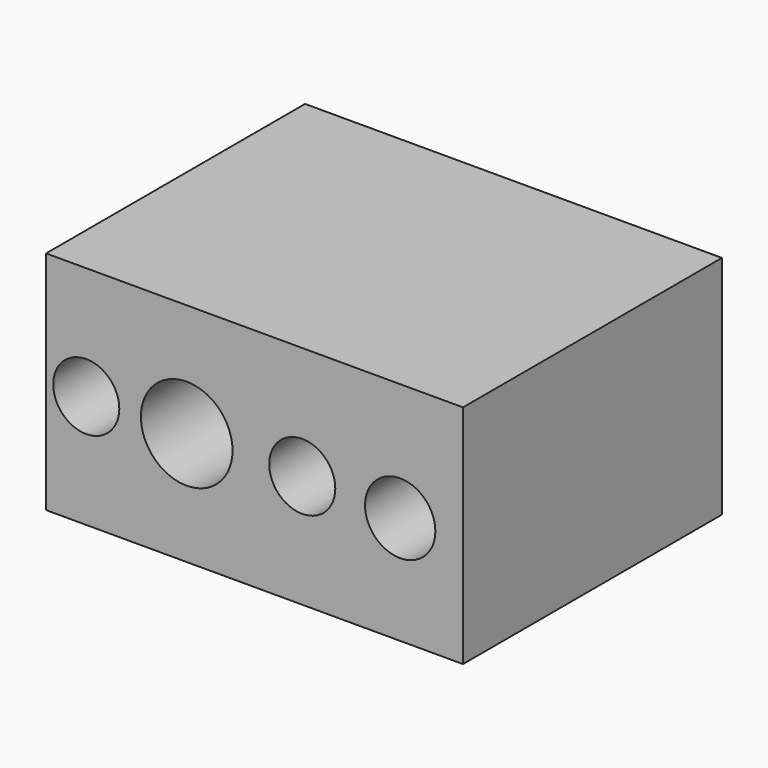
from build123d import *

# Parameters (mm, degrees)
F0_W     = 32.713448
F0_H     = 17.736208
F0_R     = 2.759179
F0_R_2   = 2.592231
F0_R_3   = 3.59617
F0_R_4   = 2.592036
F1_DEPTH = 25.4


with BuildPart() as f1:
    # F0 (on Front) → F1 (new body)
    with BuildSketch(Plane.XZ):
        with Locations((-35.078277, -21.677587)):
            Rectangle(F0_W, F0_H)
        with Locations((-23.648277, -22.071587)):
            Circle(F0_R, mode=Mode.SUBTRACT)
        with Locations((-48.281897, -21.677418)):
            Circle(F0_R_2, mode=Mode.SUBTRACT)
        with Locations((-40.399138, -21.677585)):
            Circle(F0_R_3, mode=Mode.SUBTRACT)
        with Locations((-31.333964, -21.677585)):
            Circle(F0_R_4, mode=Mode.SUBTRACT)
    extrude(amount=F1_DEPTH)


solid = f1.part
